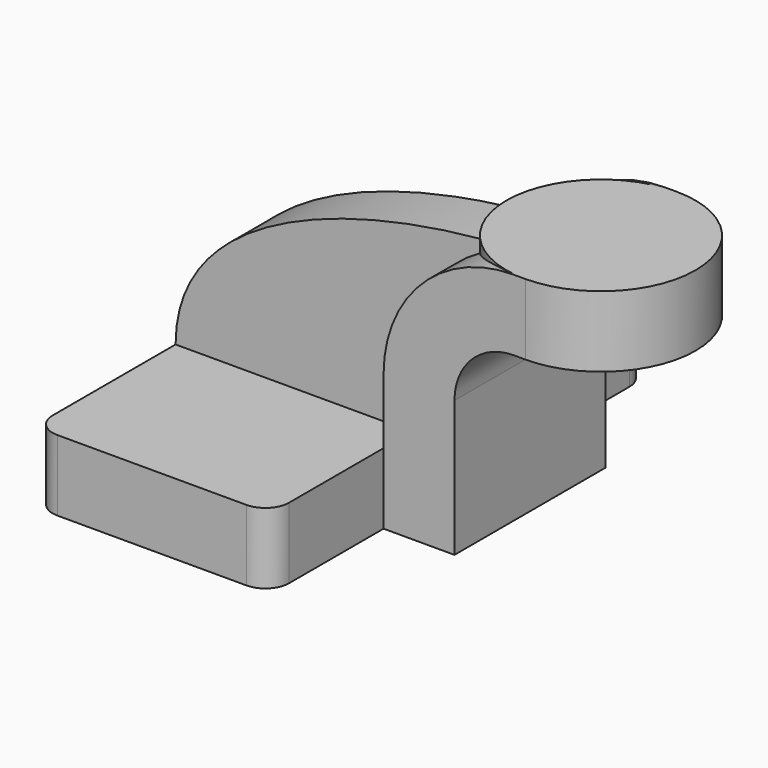
from build123d import *

# Parameters (mm, degrees)
F0_W     = 63.5000000107
F0_H     = 19.05
F1_DEPTH = 63.5
F0_W_2   = 19.0499999893
F2_DEPTH = 25.4
F3_DEPTH = 15.875
F0_W_3   = 25.4
F0_H_2   = 19.0499999893
F5_R     = 6.35


with BuildPart() as f1:
    # F0 (on Front) → F1 (new body, symmetric)
    with BuildSketch(Plane.XZ):
        with Locations((-9.5249999946, 0)):
            Rectangle(F0_W, F0_H)
    extrude(amount=F1_DEPTH, both=True)

    # F0 (on Front) → F2 (join, symmetric)
    with BuildSketch(Plane.XZ):
        with Locations((31.7500000054, 0)):
            Rectangle(F0_W_2, F0_H)
        with BuildLine():
            Line((22.2250000107, 9.525), (41.275, 9.525))
            Line((41.275, 9.525), (41.275, 27.0002))
            ThreePointArc((41.275, 27.0002), (45.9246798487, 38.2255201513), (57.15, 42.8752))
            Line((57.15, 42.8752), (60.325, 42.8752))
            Line((60.325, 42.8752), (60.325, 61.9251999893))
            Line((60.325, 61.9251999893), (57.1730846286, 61.9251999893))
            Line((57.1730846286, 61.9251999893), (57.15, 61.9251999893))
            ThreePointArc((57.15, 61.9251999893), (32.4542956746, 51.6959043254), (22.2250000107, 27.0002))
            Line((22.2250000107, 27.0002), (22.2250000107, 9.525))
        make_face()
    extrude(amount=F2_DEPTH, both=True)

    # F0 (on Front) → F3 (join)
    with BuildSketch(Plane.XZ):
        with BuildLine():
            Line((-41.275, 9.525), (22.2250000107, 9.525))
            Line((22.2250000107, 9.525), (22.2250000107, 27.0002))
            ThreePointArc((22.2250000107, 27.0002), (32.4542956746, 51.6959043254), (57.15, 61.9251999893))
            add(Edge.make_bspline(
                [(-41.275, 9.525), (-41.275, 48.5757485088), (19.736442486, 61.9251999893), (57.15, 61.9251999893)],
                knots=[0, 0, 0, 0, 111.5045361585, 111.5045361585, 111.5045361585, 111.5045361585], degree=3))
        make_face()
    extrude(amount=F3_DEPTH)

    # F0 (on Front) → F4 (revolve)
    with BuildSketch(Plane.XZ):
        with Locations((73.025, 52.4001999946)):
            Rectangle(F0_W_3, F0_H_2)
    revolve(axis=Axis((60.325, 0, 52.3875), (0, 0, 1)))

    # F5
    f5_edges = [f1.edges().sort_by_distance(p)[0] for p in [
        (-41.275, -63.5, 0),
        (22.225, -63.5, 0),
        (-41.275, 63.5, 0),
        (22.225, 63.5, 0),
    ]]
    fillet(f5_edges, radius=F5_R)


solid = f1.part
